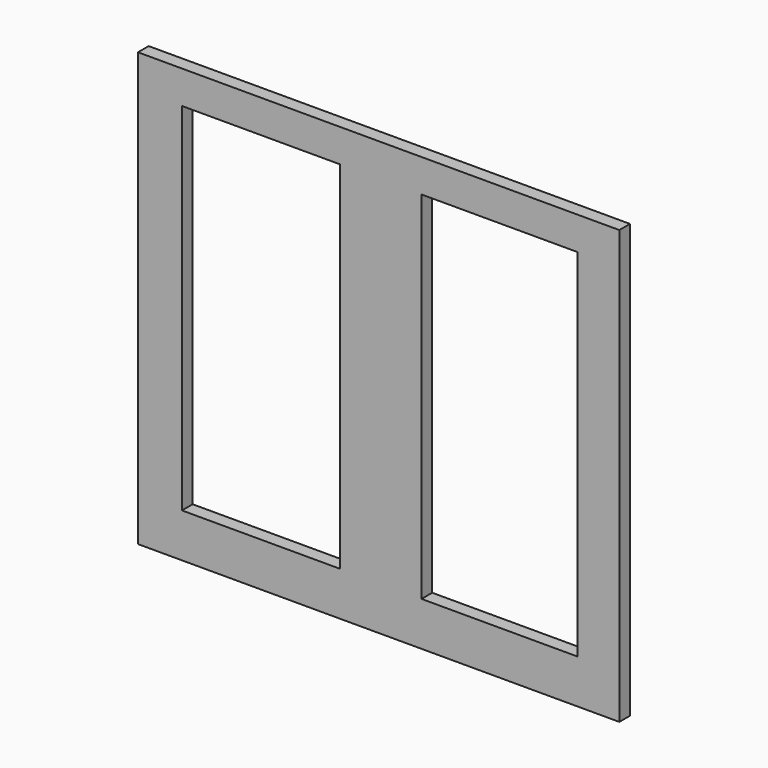
from build123d import *

# Parameters (mm, degrees)
F0_W     = 53.97888
F0_H     = 48.556341
F1_DEPTH = 1.5
F2_W     = 17.746481
F2_H     = 39.929578
F2_W_2   = 17.500002
F2_H_2   = 39.929576
F3_DEPTH = 1.5


with BuildPart() as f1:
    # F0 (on Front) → F1 (new body)
    with BuildSketch(Plane.XZ):
        with Locations((-12.323943, 5.176057)):
            Rectangle(F0_W, F0_H)
    extrude(amount=F1_DEPTH)

    # F2 (on face) → F3 (cut)
    with BuildSketch(Plane.XZ.offset(1.5)):
        with Locations((-25.510563, 5.792254)):
            Rectangle(F2_W, F2_H)
        with Locations((1.232396, 5.792253)):
            Rectangle(F2_W_2, F2_H_2)
    extrude(amount=-F3_DEPTH, mode=Mode.SUBTRACT)


solid = f1.part
